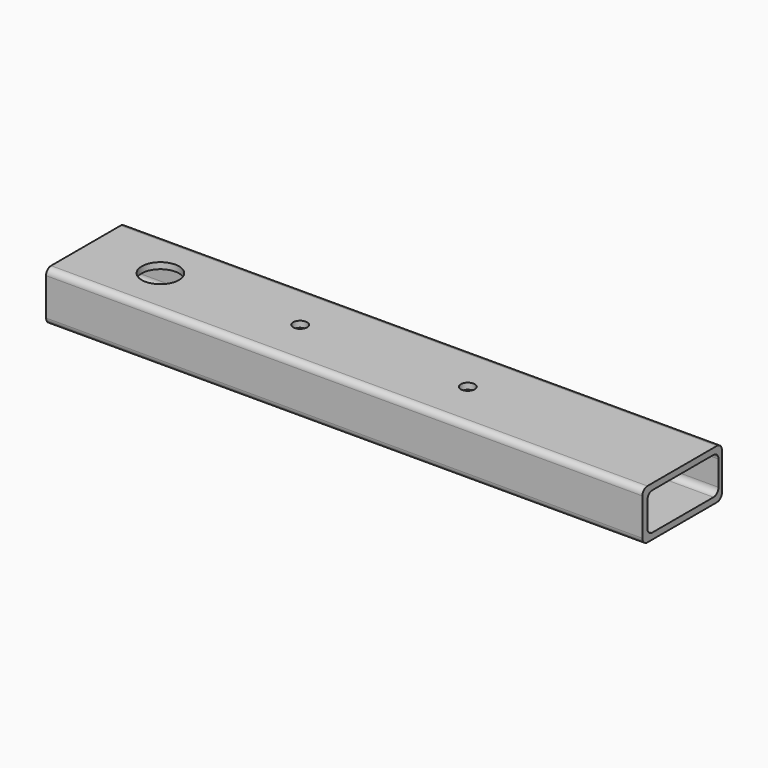
from build123d import *

# Parameters (mm, degrees)
F2_DEPTH  = 304.8
F4_D      = 14.2875
F4_DEPTH  = 6.35
F6_D      = 38.1
F6_DEPTH  = 6.35
F8_D      = 14.2875
F8_DEPTH  = 6.35
F10_D     = 31.75
F10_DEPTH = 6.35


with BuildPart() as f2:
    # F1 (on Right) → F2 (new body, symmetric)
    with BuildSketch(Plane.YZ):
        with BuildLine():
            Line((-177.776466, 50.8), (-266.676466, 50.8))
            ThreePointArc((-266.676466, 50.8), (-271.166595, 48.940128), (-273.026466, 44.45))
            Line((-273.026466, 44.45), (-273.026466, 37.770297))
            Line((-273.026466, 37.770297), (-273.026466, 6.35))
            ThreePointArc((-273.026466, 6.35), (-271.166595, 1.859872), (-266.676466, 0))
            Line((-266.676466, 0), (-177.776466, 0))
            ThreePointArc((-177.776466, 0), (-173.286338, 1.859872), (-171.426466, 6.35))
            Line((-171.426466, 6.35), (-171.426466, 44.45))
            ThreePointArc((-171.426466, 44.45), (-173.286338, 48.940128), (-177.776466, 50.8))
        make_face()
        with BuildLine():
            ThreePointArc((-266.671124, 38.101069), (-264.810874, 42.590506), (-260.321124, 44.45))
            Line((-260.321124, 44.45), (-182.185624, 44.45))
            ThreePointArc((-182.185624, 44.45), (-177.695496, 42.590128), (-175.835624, 38.1))
            Line((-175.835624, 38.1), (-175.835624, 12.7))
            ThreePointArc((-175.835624, 12.7), (-177.695496, 8.209872), (-182.185624, 6.35))
            Line((-182.185624, 6.35), (-260.325398, 6.35))
            ThreePointArc((-260.325398, 6.35), (-264.815904, 8.21025), (-266.675398, 12.701069))
            Line((-266.675398, 12.701069), (-266.671124, 38.101069))
        make_face(mode=Mode.SUBTRACT)
    extrude(amount=F2_DEPTH, both=True)

    # F4
    with Locations(Plane.XY.offset(50.8)):
        with Locations((-85.725, -222.226466), (85.725, -222.226466)):
            Hole(F4_D / 2, depth=F4_DEPTH)

    # F6
    with Locations(Plane.XY.offset(50.8)):
        with Locations((-228.6, -222.226466)):
            Hole(F6_D / 2, depth=F6_DEPTH)

    # F8
    with Locations(Plane(origin=(0, 0, 0), x_dir=(1, 0, 0), z_dir=(0, 0, -1))):
        with Locations((-228.6, 222.226466)):
            Hole(F8_D / 2, depth=F8_DEPTH)

    # F10
    with Locations(Plane(origin=(0, 0, 0), x_dir=(1, 0, 0), z_dir=(0, 0, -1))):
        with Locations((-85.725, 222.226466), (85.725, 222.226466)):
            Hole(F10_D / 2, depth=F10_DEPTH)


solid = f2.part
